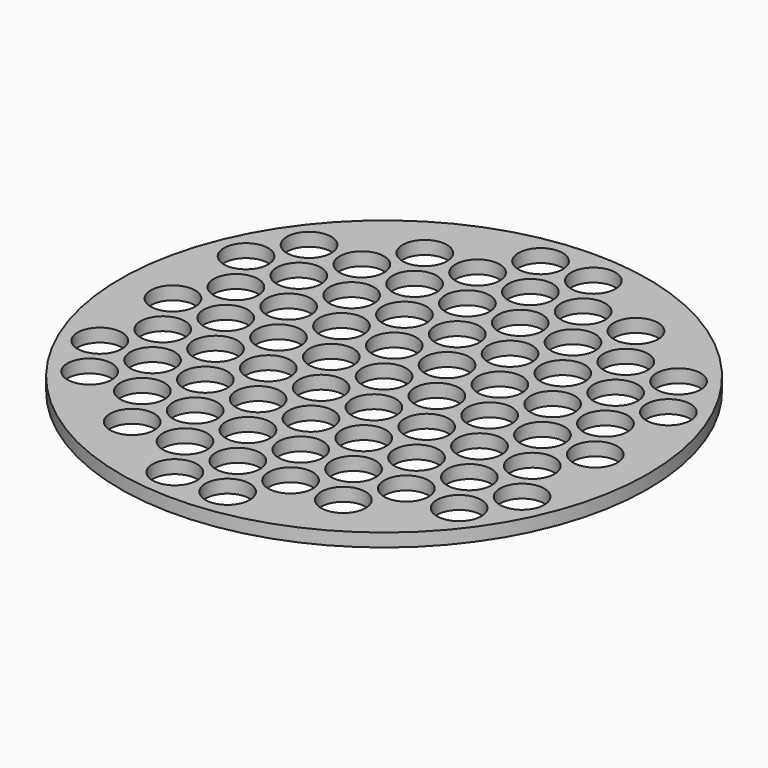
from build123d import *

# Parameters (mm, degrees)
F0_R     = 127
F0_R_2   = 10.668
F1_DEPTH = 6.35


with BuildPart() as f1:
    # F0 (on Top) → F1 (new body)
    with BuildSketch(Plane.XY):
        Circle(F0_R)
        with Locations((-88.9, -65.991136)):
            Circle(F0_R_2, mode=Mode.SUBTRACT)
        with Locations((-12.7, -109.985226)):
            Circle(F0_R_2, mode=Mode.SUBTRACT)
        with Locations((-50.8, -87.988181)):
            Circle(F0_R_2, mode=Mode.SUBTRACT)
        with Locations((-63.5, -65.991136)):
            Circle(F0_R_2, mode=Mode.SUBTRACT)
        with Locations((-38.1, -65.991136)):
            Circle(F0_R_2, mode=Mode.SUBTRACT)
        with Locations((-25.4, -87.988181)):
            Circle(F0_R_2, mode=Mode.SUBTRACT)
        with Locations((-12.7, -65.991136)):
            Circle(F0_R_2, mode=Mode.SUBTRACT)
        with Locations((-101.6, -43.994091)):
            Circle(F0_R_2, mode=Mode.SUBTRACT)
        with Locations((-76.2, -43.994091)):
            Circle(F0_R_2, mode=Mode.SUBTRACT)
        with Locations((-88.9, -21.997045)):
            Circle(F0_R_2, mode=Mode.SUBTRACT)
        with Locations((-50.8, -43.994091)):
            Circle(F0_R_2, mode=Mode.SUBTRACT)
        with Locations((-25.4, -43.994091)):
            Circle(F0_R_2, mode=Mode.SUBTRACT)
        with Locations((-63.5, -21.997045)):
            Circle(F0_R_2, mode=Mode.SUBTRACT)
        with Locations((-38.1, -21.997045)):
            Circle(F0_R_2, mode=Mode.SUBTRACT)
        with Locations((-12.7, -21.997045)):
            Circle(F0_R_2, mode=Mode.SUBTRACT)
        with Locations((12.7, -109.985226)):
            Circle(F0_R_2, mode=Mode.SUBTRACT)
        with Locations((0, -87.988181)):
            Circle(F0_R_2, mode=Mode.SUBTRACT)
        with Locations((25.4, -87.988181)):
            Circle(F0_R_2, mode=Mode.SUBTRACT)
        with Locations((12.7, -65.991136)):
            Circle(F0_R_2, mode=Mode.SUBTRACT)
        with Locations((50.8, -87.988181)):
            Circle(F0_R_2, mode=Mode.SUBTRACT)
        with Locations((38.1, -65.991136)):
            Circle(F0_R_2, mode=Mode.SUBTRACT)
        with Locations((63.5, -65.991136)):
            Circle(F0_R_2, mode=Mode.SUBTRACT)
        with Locations((88.9, -65.991136)):
            Circle(F0_R_2, mode=Mode.SUBTRACT)
        with Locations((0, -43.994091)):
            Circle(F0_R_2, mode=Mode.SUBTRACT)
        with Locations((25.4, -43.994091)):
            Circle(F0_R_2, mode=Mode.SUBTRACT)
        with Locations((50.8, -43.994091)):
            Circle(F0_R_2, mode=Mode.SUBTRACT)
        with Locations((12.7, -21.997045)):
            Circle(F0_R_2, mode=Mode.SUBTRACT)
        with Locations((38.1, -21.997045)):
            Circle(F0_R_2, mode=Mode.SUBTRACT)
        with Locations((76.2, -43.994091)):
            Circle(F0_R_2, mode=Mode.SUBTRACT)
        with Locations((101.6, -43.994091)):
            Circle(F0_R_2, mode=Mode.SUBTRACT)
        with Locations((63.5, -21.997045)):
            Circle(F0_R_2, mode=Mode.SUBTRACT)
        with Locations((88.9, -21.997045)):
            Circle(F0_R_2, mode=Mode.SUBTRACT)
        with Locations((-101.6, 0)):
            Circle(F0_R_2, mode=Mode.SUBTRACT)
        with Locations((-76.2, 0)):
            Circle(F0_R_2, mode=Mode.SUBTRACT)
        with Locations((-88.9, 21.997045)):
            Circle(F0_R_2, mode=Mode.SUBTRACT)
        with Locations((-101.6, 43.994091)):
            Circle(F0_R_2, mode=Mode.SUBTRACT)
        with Locations((-76.2, 43.994091)):
            Circle(F0_R_2, mode=Mode.SUBTRACT)
        with Locations((-50.8, 0)):
            Circle(F0_R_2, mode=Mode.SUBTRACT)
        with Locations((-63.5, 21.997045)):
            Circle(F0_R_2, mode=Mode.SUBTRACT)
        with Locations((-38.1, 21.997045)):
            Circle(F0_R_2, mode=Mode.SUBTRACT)
        with Locations((-25.4, 0)):
            Circle(F0_R_2, mode=Mode.SUBTRACT)
        with Locations((-12.7, 21.997045)):
            Circle(F0_R_2, mode=Mode.SUBTRACT)
        with Locations((-50.8, 43.994091)):
            Circle(F0_R_2, mode=Mode.SUBTRACT)
        with Locations((-25.4, 43.994091)):
            Circle(F0_R_2, mode=Mode.SUBTRACT)
        with Locations((-88.9, 65.991136)):
            Circle(F0_R_2, mode=Mode.SUBTRACT)
        with Locations((-63.5, 65.991136)):
            Circle(F0_R_2, mode=Mode.SUBTRACT)
        with Locations((-38.1, 65.991136)):
            Circle(F0_R_2, mode=Mode.SUBTRACT)
        with Locations((-50.8, 87.988181)):
            Circle(F0_R_2, mode=Mode.SUBTRACT)
        with Locations((-12.7, 65.991136)):
            Circle(F0_R_2, mode=Mode.SUBTRACT)
        with Locations((-25.4, 87.988181)):
            Circle(F0_R_2, mode=Mode.SUBTRACT)
        with Locations((-12.7, 109.985226)):
            Circle(F0_R_2, mode=Mode.SUBTRACT)
        Circle(F0_R_2, mode=Mode.SUBTRACT)
        with Locations((25.4, 0)):
            Circle(F0_R_2, mode=Mode.SUBTRACT)
        with Locations((12.7, 21.997045)):
            Circle(F0_R_2, mode=Mode.SUBTRACT)
        with Locations((50.8, 0)):
            Circle(F0_R_2, mode=Mode.SUBTRACT)
        with Locations((38.1, 21.997045)):
            Circle(F0_R_2, mode=Mode.SUBTRACT)
        with Locations((0, 43.994091)):
            Circle(F0_R_2, mode=Mode.SUBTRACT)
        with Locations((25.4, 43.994091)):
            Circle(F0_R_2, mode=Mode.SUBTRACT)
        with Locations((50.8, 43.994091)):
            Circle(F0_R_2, mode=Mode.SUBTRACT)
        with Locations((76.2, 0)):
            Circle(F0_R_2, mode=Mode.SUBTRACT)
        with Locations((63.5, 21.997045)):
            Circle(F0_R_2, mode=Mode.SUBTRACT)
        with Locations((88.9, 21.997045)):
            Circle(F0_R_2, mode=Mode.SUBTRACT)
        with Locations((101.6, 0)):
            Circle(F0_R_2, mode=Mode.SUBTRACT)
        with Locations((76.2, 43.994091)):
            Circle(F0_R_2, mode=Mode.SUBTRACT)
        with Locations((101.6, 43.994091)):
            Circle(F0_R_2, mode=Mode.SUBTRACT)
        with Locations((12.7, 65.991136)):
            Circle(F0_R_2, mode=Mode.SUBTRACT)
        with Locations((0, 87.988181)):
            Circle(F0_R_2, mode=Mode.SUBTRACT)
        with Locations((25.4, 87.988181)):
            Circle(F0_R_2, mode=Mode.SUBTRACT)
        with Locations((38.1, 65.991136)):
            Circle(F0_R_2, mode=Mode.SUBTRACT)
        with Locations((50.8, 87.988181)):
            Circle(F0_R_2, mode=Mode.SUBTRACT)
        with Locations((12.7, 109.985226)):
            Circle(F0_R_2, mode=Mode.SUBTRACT)
        with Locations((63.5, 65.991136)):
            Circle(F0_R_2, mode=Mode.SUBTRACT)
        with Locations((88.9, 65.991136)):
            Circle(F0_R_2, mode=Mode.SUBTRACT)
    extrude(amount=F1_DEPTH)


solid = f1.part
